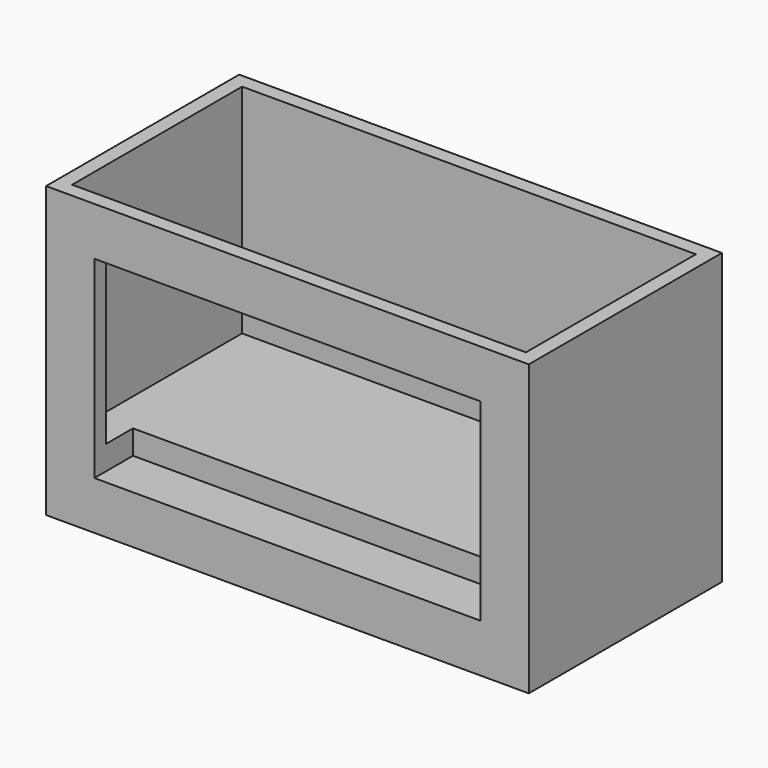
from build123d import *

# Parameters (mm, degrees)
F0_W     = 254
F0_H     = 152.4
F1_DEPTH = 63.5
F2_W     = 238.76
F2_H     = 111.76
F3_DEPTH = 114.3
F4_W     = 203.2
F4_H     = 101.6
F5_DEPTH = 25.4


with BuildPart() as f1:
    # F0 (on Front) → F1 (new body, symmetric)
    with BuildSketch(Plane.XZ):
        with Locations((9.614129, 15.851616)):
            Rectangle(F0_W, F0_H)
    extrude(amount=F1_DEPTH, both=True)

    # F2 (on face) → F3 (cut)
    with BuildSketch(Plane.XY.offset(92.051616)):
        with Locations((9.614129, 0)):
            Rectangle(F2_W, F2_H)
    extrude(amount=-F3_DEPTH, mode=Mode.SUBTRACT)

    # F4 (on face) → F5 (cut)
    with BuildSketch(Plane.XZ.offset(63.5)):
        with Locations((9.614129, 15.851616)):
            Rectangle(F4_W, F4_H)
    extrude(amount=-F5_DEPTH, mode=Mode.SUBTRACT)


solid = f1.part
